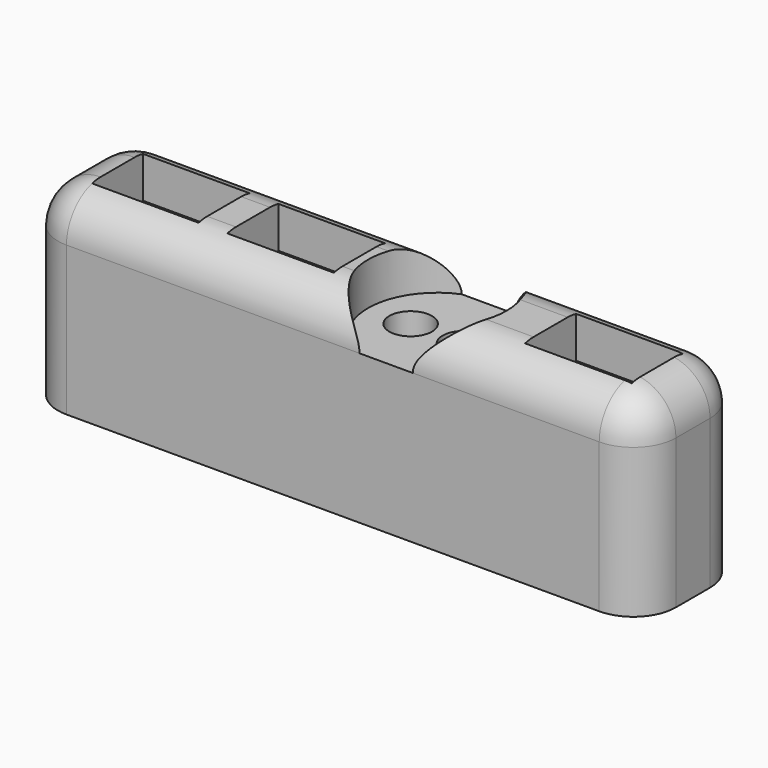
from build123d import *

# Parameters (mm, degrees)
BOX001_W          = 5
BOX001_H          = 3
BOX001_DEPTH      = 10
BOX002_W          = 5
BOX002_H          = 3
BOX002_DEPTH      = 10
BOX003_W          = 5
BOX003_H          = 3
BOX003_DEPTH      = 10
CYLINDER_R        = 3.25
CYLINDER_DEPTH    = 10
CYLINDER002_R     = 1
CYLINDER002_DEPTH = 20
CYLINDER001_R     = 1
CYLINDER001_DEPTH = 20
CYLINDER004_R     = 1
CYLINDER004_DEPTH = 20
CYLINDER003_R     = 1
CYLINDER003_DEPTH = 20
CYLINDER006_R     = 1
CYLINDER006_DEPTH = 20
CYLINDER005_R     = 1
CYLINDER005_DEPTH = 20
CYLINDER008_R     = 1
CYLINDER008_DEPTH = 20
CYLINDER007_R     = 1
CYLINDER007_DEPTH = 20
BOX_W             = 29
BOX_H             = 6
BOX_DEPTH         = 9
FILLET_R          = 2


with BuildPart() as cube001:
    # Box001 → Box001 (new body)
    with BuildSketch(Plane(origin=(2, 1.5, 7), x_dir=(1, 0, 0), z_dir=(0, 0, 1))):
        with Locations((2.5, 1.5)):
            Rectangle(BOX001_W, BOX001_H)
    extrude(amount=BOX001_DEPTH)


with BuildPart() as cube002:
    # Box002 → Box002 (new body)
    with BuildSketch(Plane(origin=(8.35, 1.5, 7), x_dir=(1, 0, 0), z_dir=(0, 0, 1))):
        with Locations((2.5, 1.5)):
            Rectangle(BOX002_W, BOX002_H)
    extrude(amount=BOX002_DEPTH)


with BuildPart() as cube003:
    # Box003 → Box003 (new body)
    with BuildSketch(Plane(origin=(22.32, 1.5, 7), x_dir=(1, 0, 0), z_dir=(0, 0, 1))):
        with Locations((2.5, 1.5)):
            Rectangle(BOX003_W, BOX003_H)
    extrude(amount=BOX003_DEPTH)


with BuildPart() as cylinder:
    # Cylinder → Cylinder (new body)
    with BuildSketch(Plane(origin=(17, 3, 7), x_dir=(1, 0, 0), z_dir=(0, 0, 1))):
        Circle(CYLINDER_R)
    extrude(amount=CYLINDER_DEPTH)


with BuildPart() as cylinder002:
    # Cylinder002 → Cylinder002 (new body)
    with BuildSketch(Plane(origin=(5.75, 3, 0), x_dir=(1, 0, 0), z_dir=(0, 0, 1))):
        Circle(CYLINDER002_R)
    extrude(amount=CYLINDER002_DEPTH)


with BuildPart() as fusion:
    # Cylinder001 → Cylinder001 (new body)
    with BuildSketch(Plane(origin=(3.25, 3, 0), x_dir=(1, 0, 0), z_dir=(0, 0, 1))):
        Circle(CYLINDER001_R)
    extrude(amount=CYLINDER001_DEPTH)

    # Fusion: union Cylinder002
    add(cylinder002.part)


with BuildPart() as cylinder004:
    # Cylinder004 → Cylinder004 (new body)
    with BuildSketch(Plane(origin=(5.75, 3, 0), x_dir=(1, 0, 0), z_dir=(0, 0, 1))):
        Circle(CYLINDER004_R)
    extrude(amount=CYLINDER004_DEPTH)


with BuildPart() as fusion001:
    # Cylinder003 → Cylinder003 (new body)
    with BuildSketch(Plane(origin=(3.25, 3, 0), x_dir=(1, 0, 0), z_dir=(0, 0, 1))):
        Circle(CYLINDER003_R)
    extrude(amount=CYLINDER003_DEPTH)

    # Fusion001: union Cylinder004
    add(cylinder004.part)


with BuildPart() as fusion001_1:
    # Fusion001 placement: moved
    add(fusion001.part.moved(Location((6.25, 0, 0))))


with BuildPart() as cylinder006:
    # Cylinder006 → Cylinder006 (new body)
    with BuildSketch(Plane(origin=(5.75, 3, 0), x_dir=(1, 0, 0), z_dir=(0, 0, 1))):
        Circle(CYLINDER006_R)
    extrude(amount=CYLINDER006_DEPTH)


with BuildPart() as fusion002:
    # Cylinder005 → Cylinder005 (new body)
    with BuildSketch(Plane(origin=(3.25, 3, 0), x_dir=(1, 0, 0), z_dir=(0, 0, 1))):
        Circle(CYLINDER005_R)
    extrude(amount=CYLINDER005_DEPTH)

    # Fusion002: union Cylinder006
    add(cylinder006.part)


with BuildPart() as fusion002_1:
    # Fusion002 placement: moved
    add(fusion002.part.moved(Location((20.25, 0, 0))))


with BuildPart() as cylinder008:
    # Cylinder008 → Cylinder008 (new body)
    with BuildSketch(Plane(origin=(5.75, 3, 0), x_dir=(1, 0, 0), z_dir=(0, 0, 1))):
        Circle(CYLINDER008_R)
    extrude(amount=CYLINDER008_DEPTH)


with BuildPart() as fusion004:
    # Cylinder007 → Cylinder007 (new body)
    with BuildSketch(Plane(origin=(3.25, 3, 0), x_dir=(1, 0, 0), z_dir=(0, 0, 1))):
        Circle(CYLINDER007_R)
    extrude(amount=CYLINDER007_DEPTH)

    # Fusion003: union Cylinder008
    add(cylinder008.part)


with BuildPart() as fusion004_1:
    # Fusion003 placement: moved
    add(fusion004.part.moved(Location((12.5, 0, 0))))

    # Fusion004: union Cube001, Cube002, Cube003, Cylinder, Fusion, Fusion001, Fusion002
    add(cube001.part)
    add(cube002.part)
    add(cube003.part)
    add(cylinder.part)
    add(fusion.part)
    add(fusion001_1.part)
    add(fusion002_1.part)


with BuildPart() as standoff:
    # Box → Box (new body)
    with BuildSketch(Plane.XY):
        with Locations((14.5, 3)):
            Rectangle(BOX_W, BOX_H)
    extrude(amount=BOX_DEPTH)

    # Fillet
    fillet_edges = [standoff.edges().sort_by_distance(p)[0] for p in [
        (0, 0, 4.5),
        (0, 3, 9),
        (0, 6, 4.5),
        (29, 0, 4.5),
        (29, 3, 9),
        (29, 6, 4.5),
        (14.5, 0, 9),
        (14.5, 6, 9),
    ]]
    fillet(fillet_edges, radius=FILLET_R)

    # Cut: cut Fusion004
    add(fusion004_1.part, mode=Mode.SUBTRACT)


solid = standoff.part
